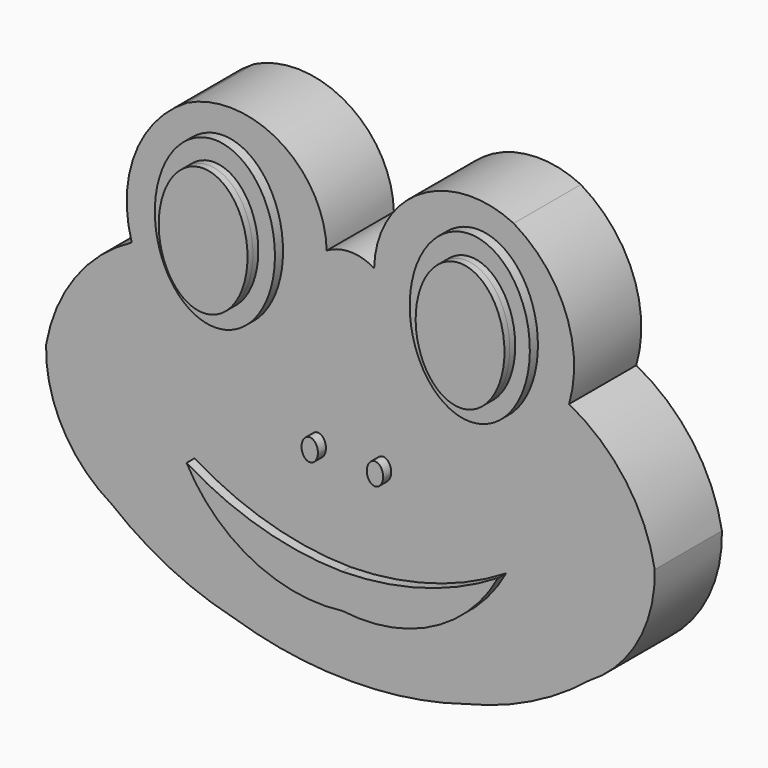
from build123d import *

# Parameters (mm, degrees)
F1_DEPTH = 6.35
F3_DEPTH = 7.112
F5_DEPTH = 7.62
F6_DEPTH = 8.128


with BuildPart() as f1:
    # F0 (on Front) → F1 (new body)
    with BuildSketch(Plane.XZ):
        with BuildLine():
            ThreePointArc((1.7938007368, 13.1640341133), (0, 13.6572233107), (-1.7938007368, 13.1640341133))
            ThreePointArc((-1.7938007368, 13.1640341133), (-5.3164680529, 19.2534781495), (-12.3440632597, 19.5750668645))
            ThreePointArc((-12.3440632597, 19.5750668645), (-16.2697935097, 14.9604002099), (-16.5348500013, 8.9076114818))
            ThreePointArc((-16.5348500013, 8.9076114818), (-20.8041441001, 5.2034101528), (-23.0115186423, 0))
            ThreePointArc((-23.0115186423, 0), (-21.7531756781, -5.1696394341), (-18.0587712675, -8.9984741062))
            ThreePointArc((-18.0587712675, -8.9984741062), (-13.693909696, -11.7987149183), (-8.8199935853, -13.5702416301))
            ThreePointArc((-8.8199935853, -13.5702416301), (-4.4612425903, -14.5759230892), (0, -14.9036729708))
            ThreePointArc((0, -14.9036729708), (4.4612425903, -14.5759230892), (8.8199935853, -13.5702416301))
            ThreePointArc((8.8199935853, -13.5702416301), (13.693909696, -11.7987149183), (18.0587712675, -8.9984741062))
            ThreePointArc((18.0587712675, -8.9984741062), (21.7531756781, -5.1696394341), (23.0115186423, 0))
            ThreePointArc((23.0115186423, 0), (20.8041441001, 5.2034101528), (16.5348500013, 8.9076114818))
            ThreePointArc((16.5348500013, 8.9076114818), (16.2697935097, 14.9604002099), (12.3440632597, 19.5750668645))
            ThreePointArc((12.3440632597, 19.5750668645), (5.3164680529, 19.2534781495), (1.7938007368, 13.1640341133))
        make_face()
    extrude(amount=F1_DEPTH)

    # F2 (on Front) → F3 (join)
    with BuildSketch(Plane.XZ):
        with BuildLine():
            add(Edge.make_bspline(
                [(-9.6370028332, 18.2963684201), (-17.5014538427, 18.2963684201), (-13.569228338, 8.9325434528), (-9.6370028332, -0.4312815145), (-5.7047773284, 8.9325434528), (-1.7725518236, 18.2963684201), (-9.6370028332, 18.2963684201)],
                knots=[0, 0, 0, 2.0943951024, 2.0943951024, 4.1887902048, 4.1887902048, 6.2831853072, 6.2831853072, 6.2831853072], degree=2, weights=[1, 0.5, 1, 0.5, 1, 0.5, 1]))
        make_face()
        with BuildLine():
            add(Edge.make_bspline(
                [(-2.4665053934, 0.8340993081), (-3.5359200187, 0.8340993081), (-3.001212706, -0.4170496541), (-2.4665053934, -1.6681986162), (-1.9317980807, -0.4170496541), (-1.3970907681, 0.8340993081), (-2.4665053934, 0.8340993081)],
                knots=[0, 0, 0, 2.0943951024, 2.0943951024, 4.1887902048, 4.1887902048, 6.2831853072, 6.2831853072, 6.2831853072], degree=2, weights=[1, 0.5, 1, 0.5, 1, 0.5, 1]))
        make_face()
        with BuildLine():
            add(Edge.make_bspline(
                [(9.6370028332, 18.2963684201), (1.7725518236, 18.2963684201), (5.7047773284, 8.9325434528), (9.6370028332, -0.4312815145), (13.569228338, 8.9325434528), (17.5014538427, 18.2963684201), (9.6370028332, 18.2963684201)],
                knots=[0, 0, 0, 2.0943951024, 2.0943951024, 4.1887902048, 4.1887902048, 6.2831853072, 6.2831853072, 6.2831853072], degree=2, weights=[1, 0.5, 1, 0.5, 1, 0.5, 1]))
        make_face()
        with BuildLine():
            add(Edge.make_bspline(
                [(2.4665053934, 0.8340993081), (1.3970907681, 0.8340993081), (1.9317980807, -0.4170496541), (2.4665053934, -1.6681986162), (3.001212706, -0.4170496541), (3.5359200187, 0.8340993081), (2.4665053934, 0.8340993081)],
                knots=[0, 0, 0, 2.0943951024, 2.0943951024, 4.1887902048, 4.1887902048, 6.2831853072, 6.2831853072, 6.2831853072], degree=2, weights=[1, 0.5, 1, 0.5, 1, 0.5, 1]))
        make_face()
        with BuildLine():
            ThreePointArc((0, -7.315651048), (-6.1209625513, -6.4094895832), (-11.7790261284, -3.9047684986))
            ThreePointArc((-11.7790261284, -3.9047684986), (-6.8239147975, -8.7429084856), (0, -9.9239731207))
            ThreePointArc((0, -9.9239731207), (6.8239147975, -8.7429084856), (11.7790261284, -3.9047684986))
            ThreePointArc((11.7790261284, -3.9047684986), (6.1209625513, -6.4094895832), (0, -7.315651048))
        make_face()
    extrude(amount=F3_DEPTH)

    # F4 (on Front) → F5 (join)
    with BuildSketch(Plane.XZ):
        with BuildLine():
            add(Edge.make_bspline(
                [(-9.7133507952, 16.7924873531), (-15.5296298908, 16.7924873531), (-12.621490343, 9.5717669465), (-9.7133507952, 2.3510465398), (-6.8052112474, 9.5717669465), (-3.8970716996, 16.7924873531), (-9.7133507952, 16.7924873531)],
                knots=[0, 0, 0, 2.0943951024, 2.0943951024, 4.1887902048, 4.1887902048, 6.2831853072, 6.2831853072, 6.2831853072], degree=2, weights=[1, 0.5, 1, 0.5, 1, 0.5, 1]))
        make_face()
        with BuildLine():
            add(Edge.make_bspline(
                [(9.7133507952, 16.7924873531), (3.8970716996, 16.7924873531), (6.8052112474, 9.5717669465), (9.7133507952, 2.3510465398), (12.621490343, 9.5717669465), (15.5296298908, 16.7924873531), (9.7133507952, 16.7924873531)],
                knots=[0, 0, 0, 2.0943951024, 2.0943951024, 4.1887902048, 4.1887902048, 6.2831853072, 6.2831853072, 6.2831853072], degree=2, weights=[1, 0.5, 1, 0.5, 1, 0.5, 1]))
        make_face()
    extrude(amount=F5_DEPTH)

    # F4 (on Front) → F6 (join)
    with BuildSketch(Plane.XZ):
        with BuildLine():
            add(Edge.make_bspline(
                [(-9.7133507952, 16.7924873531), (-15.5296298908, 16.7924873531), (-12.621490343, 9.5717669465), (-9.7133507952, 2.3510465398), (-6.8052112474, 9.5717669465), (-3.8970716996, 16.7924873531), (-9.7133507952, 16.7924873531)],
                knots=[0, 0, 0, 2.0943951024, 2.0943951024, 4.1887902048, 4.1887902048, 6.2831853072, 6.2831853072, 6.2831853072], degree=2, weights=[1, 0.5, 1, 0.5, 1, 0.5, 1]))
        make_face()
        with BuildLine():
            add(Edge.make_bspline(
                [(9.7133507952, 16.7924873531), (3.8970716996, 16.7924873531), (6.8052112474, 9.5717669465), (9.7133507952, 2.3510465398), (12.621490343, 9.5717669465), (15.5296298908, 16.7924873531), (9.7133507952, 16.7924873531)],
                knots=[0, 0, 0, 2.0943951024, 2.0943951024, 4.1887902048, 4.1887902048, 6.2831853072, 6.2831853072, 6.2831853072], degree=2, weights=[1, 0.5, 1, 0.5, 1, 0.5, 1]))
        make_face()
    extrude(amount=F6_DEPTH)


solid = f1.part
